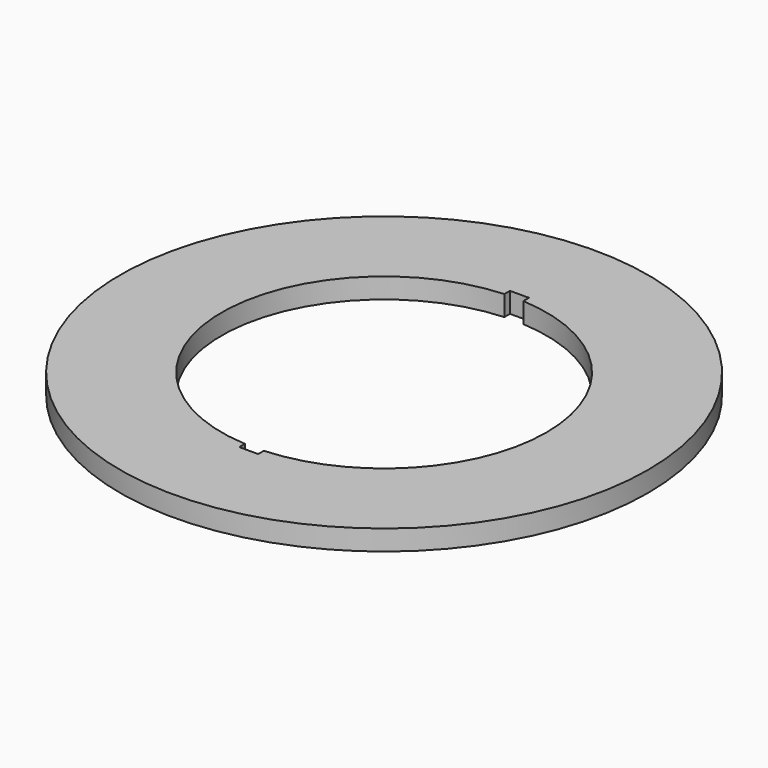
from build123d import *

# Parameters (mm, degrees)
F0_R     = 195
F1_DEPTH = 15


with BuildPart() as f1:
    # F0 (on Top) → F1 (new body)
    with BuildSketch(Plane.XY):
        Circle(F0_R)
        with BuildLine():
            ThreePointArc((7, 119.795659), (87.292611, 82.340755), (120, 0))
            ThreePointArc((120, 0), (87.292611, -82.340755), (7, -119.795659))
            Line((7, -119.795659), (7, -125))
            Line((7, -125), (-7, -125))
            Line((-7, -125), (-7, -119.795659))
            ThreePointArc((-7, -119.795659), (-120, 0), (-7, 119.795659))
            Line((-7, 119.795659), (-7, 125))
            Line((-7, 125), (7, 125))
            Line((7, 125), (7, 119.795659))
        make_face(mode=Mode.SUBTRACT)
    extrude(amount=F1_DEPTH)


solid = f1.part
